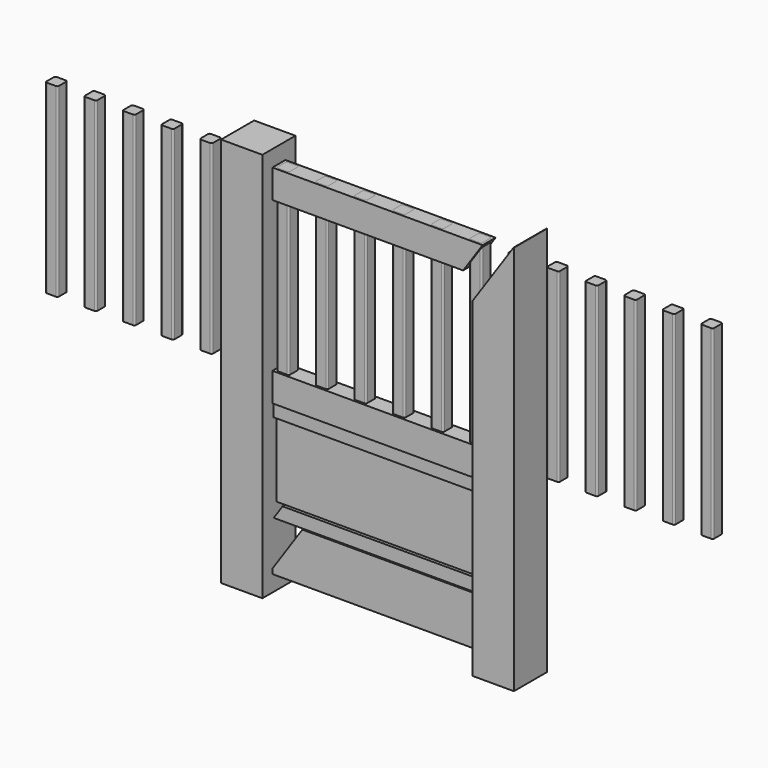
from build123d import *

# Parameters (mm, degrees)
F1_DEPTH      = 63.5
F1_DEPTH_BACK = 63.5
F2_DEPTH      = 25
F2_DEPTH_BACK = 25
F3_DEPTH      = 20
F3_DEPTH_BACK = 20
F4_DEPTH      = 10
F4_DEPTH_BACK = 10
F6_DEPTH      = 570


with BuildPart() as f1:
    # F0 (on Front) → F1 (new body, two sides)
    with BuildSketch(Plane.XZ) as f1_sk:
        Polygon((-323, -600), (-323, -550), (-323, -535.1567589171), (-323, -400), (-323, -360), (-323, -128), (-323, -88), (-323, 0), (-323, 462), (-323, 550), (-323, 600), (-450, 600), (-450, -600), align=None)
    extrude(amount=F1_DEPTH)
    extrude(f1_sk.sketch, amount=-F1_DEPTH_BACK)


with BuildPart() as f1b:
    # F0 (on Front) → F1, piece 2 (new body, two sides)
    with BuildSketch(Plane.XZ) as f1_2_sk:
        Polygon((323, -600), (450, -600), (450, 600), (448.9065960636, 600), (323, 414.8432410829), (323, 0), (323, -88), (323, -128), (323, -360), (323, -400), (323, -550), align=None)
    extrude(amount=F1_DEPTH)
    extrude(f1_2_sk.sketch, amount=-F1_DEPTH_BACK)


with BuildPart() as f2:
    # F0 (on Front) → F2 (new body, two sides)
    with BuildSketch(Plane.XZ) as f2_sk:
        Polygon((-323, -550), (323, -550), (323, -400), (-231.0934039364, -400), (-323, -535.1567589171), align=None)
    extrude(amount=F2_DEPTH)
    extrude(f2_sk.sketch, amount=-F2_DEPTH_BACK)


with BuildPart() as f2b:
    # F0 (on Front) → F2, piece 2 (new body, two sides)
    with BuildSketch(Plane.XZ) as f2_2_sk:
        Polygon((263.16, 462), (323, 550), (-323, 550), (-323, 462), align=None)
    extrude(amount=F2_DEPTH)
    extrude(f2_2_sk.sketch, amount=-F2_DEPTH_BACK)


with BuildPart() as f2c:
    # F0 (on Front) → F2, piece 3 (new body, two sides)
    with BuildSketch(Plane.XZ) as f2_3_sk:
        Polygon((-110.84, -88), (-51, 0), (-323, 0), (-323, -88), align=None)
        Polygon((-18.9334039364, -88), (40.9065960636, 0), (-51, 0), (-110.84, -88), align=None)
        Polygon((323, -88), (323, 0), (40.9065960636, 0), (-18.9334039364, -88), align=None)
    extrude(amount=F2_DEPTH)
    extrude(f2_3_sk.sketch, amount=-F2_DEPTH_BACK)


with BuildPart() as f3:
    # F0 (on Front) → F3 (new body, two sides)
    with BuildSketch(Plane.XZ) as f3_sk:
        Polygon((-138.04, -128), (-110.84, -88), (-323, -88), (-323, -128), align=None)
        Polygon((-46.1334039364, -128), (-18.9334039364, -88), (-110.84, -88), (-138.04, -128), align=None)
        Polygon((-46.1334039364, -128), (323, -128), (323, -88), (-18.9334039364, -88), align=None)
    extrude(amount=F3_DEPTH)
    extrude(f3_sk.sketch, amount=-F3_DEPTH_BACK)


with BuildPart() as f3b:
    # F0 (on Front) → F3, piece 2 (new body, two sides)
    with BuildSketch(Plane.XZ) as f3_2_sk:
        Polygon((-323, -400), (-231.0934039364, -400), (-203.8934039364, -360), (-295.8, -360), align=None)
        Polygon((-231.0934039364, -400), (323, -400), (323, -360), (-203.8934039364, -360), align=None)
    extrude(amount=F3_DEPTH)
    extrude(f3_2_sk.sketch, amount=-F3_DEPTH_BACK)


with BuildPart() as f4:
    # F0 (on Front) → F4 (new body, two sides)
    with BuildSketch(Plane.XZ) as f4_sk:
        Polygon((-323, -360), (-295.8, -360), (-138.04, -128), (-323, -128), align=None)
        Polygon((-295.8, -360), (-203.8934039364, -360), (-46.1334039364, -128), (-138.04, -128), align=None)
        Polygon((-203.8934039364, -360), (323, -360), (323, -128), (-46.1334039364, -128), align=None)
    extrude(amount=F4_DEPTH)
    extrude(f4_sk.sketch, amount=-F4_DEPTH_BACK)


with BuildPart() as f6:
    # F5 (on face) → F6 (new body)
    with BuildSketch(Plane.XY.offset(550)):
        with BuildLine():
            Line((-1021.03, -19), (-993.03, -19))
            ThreePointArc((-993.03, -19), (-989.4944660941, -17.5355339059), (-988.03, -14))
            Line((-988.03, -14), (-988.03, 14))
            ThreePointArc((-988.03, 14), (-989.4944660941, 17.5355339059), (-993.03, 19))
            Line((-993.03, 19), (-1021.03, 19))
            ThreePointArc((-1021.03, 19), (-1024.5655339059, 17.5355339059), (-1026.03, 14))
            Line((-1026.03, 14), (-1026.03, -14))
            ThreePointArc((-1026.03, -14), (-1024.5655339059, -17.5355339059), (-1021.03, -19))
        make_face()
    extrude(amount=-F6_DEPTH)


with BuildPart() as f6b:
    # F5 (on face) → F6, piece 2 (new body)
    with BuildSketch(Plane.XY.offset(550)):
        with BuildLine():
            ThreePointArc((-869.56, 14), (-871.0244660941, 17.5355339059), (-874.56, 19))
            Line((-874.56, 19), (-902.56, 19))
            ThreePointArc((-902.56, 19), (-906.0955339059, 17.5355339059), (-907.56, 14))
            Line((-907.56, 14), (-907.56, -14))
            ThreePointArc((-907.56, -14), (-906.0955339059, -17.5355339059), (-902.56, -19))
            Line((-902.56, -19), (-874.56, -19))
            ThreePointArc((-874.56, -19), (-871.0244660941, -17.5355339059), (-869.56, -14))
            Line((-869.56, -14), (-869.56, 14))
        make_face()
    extrude(amount=-F6_DEPTH)


with BuildPart() as f6c:
    # F5 (on face) → F6, piece 3 (new body)
    with BuildSketch(Plane.XY.offset(550)):
        with BuildLine():
            ThreePointArc((-751.09, 14), (-752.5544660941, 17.5355339059), (-756.09, 19))
            Line((-756.09, 19), (-784.09, 19))
            ThreePointArc((-784.09, 19), (-787.6255339059, 17.5355339059), (-789.09, 14))
            Line((-789.09, 14), (-789.09, -14))
            ThreePointArc((-789.09, -14), (-787.6255339059, -17.5355339059), (-784.09, -19))
            Line((-784.09, -19), (-756.09, -19))
            ThreePointArc((-756.09, -19), (-752.5544660941, -17.5355339059), (-751.09, -14))
            Line((-751.09, -14), (-751.09, 14))
        make_face()
    extrude(amount=-F6_DEPTH)


with BuildPart() as f6d:
    # F5 (on face) → F6, piece 4 (new body)
    with BuildSketch(Plane.XY.offset(550)):
        with BuildLine():
            ThreePointArc((-632.62, 14), (-634.0844660941, 17.5355339059), (-637.62, 19))
            Line((-637.62, 19), (-665.62, 19))
            ThreePointArc((-665.62, 19), (-669.1555339059, 17.5355339059), (-670.62, 14))
            Line((-670.62, 14), (-670.62, -14))
            ThreePointArc((-670.62, -14), (-669.1555339059, -17.5355339059), (-665.62, -19))
            Line((-665.62, -19), (-637.62, -19))
            ThreePointArc((-637.62, -19), (-634.0844660941, -17.5355339059), (-632.62, -14))
            Line((-632.62, -14), (-632.62, 14))
        make_face()
    extrude(amount=-F6_DEPTH)


with BuildPart() as f6e:
    # F5 (on face) → F6, piece 5 (new body)
    with BuildSketch(Plane.XY.offset(550)):
        with BuildLine():
            ThreePointArc((-514.15, 14), (-515.6144660941, 17.5355339059), (-519.15, 19))
            Line((-519.15, 19), (-547.15, 19))
            ThreePointArc((-547.15, 19), (-550.6855339059, 17.5355339059), (-552.15, 14))
            Line((-552.15, 14), (-552.15, -14))
            ThreePointArc((-552.15, -14), (-550.6855339059, -17.5355339059), (-547.15, -19))
            Line((-547.15, -19), (-519.15, -19))
            ThreePointArc((-519.15, -19), (-515.6144660941, -17.5355339059), (-514.15, -14))
            Line((-514.15, -14), (-514.15, 14))
        make_face()
    extrude(amount=-F6_DEPTH)


with BuildPart() as f6f:
    # F5 (on face) → F6, piece 6 (new body)
    with BuildSketch(Plane.XY.offset(550)):
        with BuildLine():
            ThreePointArc((-395.68, 14), (-397.1444660941, 17.5355339059), (-400.68, 19))
            Line((-400.68, 19), (-428.68, 19))
            ThreePointArc((-428.68, 19), (-432.2155339059, 17.5355339059), (-433.68, 14))
            Line((-433.68, 14), (-433.68, -14))
            ThreePointArc((-433.68, -14), (-432.2155339059, -17.5355339059), (-428.68, -19))
            Line((-428.68, -19), (-400.68, -19))
            ThreePointArc((-400.68, -19), (-397.1444660941, -17.5355339059), (-395.68, -14))
            Line((-395.68, -14), (-395.68, 14))
        make_face()
    extrude(amount=-F6_DEPTH)


with BuildPart() as f6g:
    # F5 (on face) → F6, piece 7 (new body)
    with BuildSketch(Plane.XY.offset(550)):
        with BuildLine():
            ThreePointArc((-277.21, 14), (-278.6744660941, 17.5355339059), (-282.21, 19))
            Line((-282.21, 19), (-310.21, 19))
            ThreePointArc((-310.21, 19), (-313.7455339059, 17.5355339059), (-315.21, 14))
            Line((-315.21, 14), (-315.21, -14))
            ThreePointArc((-315.21, -14), (-313.7455339059, -17.5355339059), (-310.21, -19))
            Line((-310.21, -19), (-282.21, -19))
            ThreePointArc((-282.21, -19), (-278.6744660941, -17.5355339059), (-277.21, -14))
            Line((-277.21, -14), (-277.21, 14))
        make_face()
    extrude(amount=-F6_DEPTH)


with BuildPart() as f6h:
    # F5 (on face) → F6, piece 8 (new body)
    with BuildSketch(Plane.XY.offset(550)):
        with BuildLine():
            ThreePointArc((-158.74, 14), (-160.2044660941, 17.5355339059), (-163.74, 19))
            Line((-163.74, 19), (-191.74, 19))
            ThreePointArc((-191.74, 19), (-195.2755339059, 17.5355339059), (-196.74, 14))
            Line((-196.74, 14), (-196.74, -14))
            ThreePointArc((-196.74, -14), (-195.2755339059, -17.5355339059), (-191.74, -19))
            Line((-191.74, -19), (-163.74, -19))
            ThreePointArc((-163.74, -19), (-160.2044660941, -17.5355339059), (-158.74, -14))
            Line((-158.74, -14), (-158.74, 14))
        make_face()
    extrude(amount=-F6_DEPTH)


with BuildPart() as f6i:
    # F5 (on face) → F6, piece 9 (new body)
    with BuildSketch(Plane.XY.offset(550)):
        with BuildLine():
            ThreePointArc((-40.27, 14), (-41.7344660941, 17.5355339059), (-45.27, 19))
            Line((-45.27, 19), (-73.27, 19))
            ThreePointArc((-73.27, 19), (-76.8055339059, 17.5355339059), (-78.27, 14))
            Line((-78.27, 14), (-78.27, -14))
            ThreePointArc((-78.27, -14), (-76.8055339059, -17.5355339059), (-73.27, -19))
            Line((-73.27, -19), (-45.27, -19))
            ThreePointArc((-45.27, -19), (-41.7344660941, -17.5355339059), (-40.27, -14))
            Line((-40.27, -14), (-40.27, 14))
        make_face()
    extrude(amount=-F6_DEPTH)


with BuildPart() as f6j:
    # F5 (on face) → F6, piece 10 (new body)
    with BuildSketch(Plane.XY.offset(550)):
        with BuildLine():
            ThreePointArc((78.2, 14), (76.7355339059, 17.5355339059), (73.2, 19))
            Line((73.2, 19), (45.2, 19))
            ThreePointArc((45.2, 19), (41.6644660941, 17.5355339059), (40.2, 14))
            Line((40.2, 14), (40.2, -14))
            ThreePointArc((40.2, -14), (41.6644660941, -17.5355339059), (45.2, -19))
            Line((45.2, -19), (73.2, -19))
            ThreePointArc((73.2, -19), (76.7355339059, -17.5355339059), (78.2, -14))
            Line((78.2, -14), (78.2, 14))
        make_face()
    extrude(amount=-F6_DEPTH)


with BuildPart() as f6k:
    # F5 (on face) → F6, piece 11 (new body)
    with BuildSketch(Plane.XY.offset(550)):
        with BuildLine():
            ThreePointArc((196.67, 14), (195.2055339059, 17.5355339059), (191.67, 19))
            Line((191.67, 19), (163.67, 19))
            ThreePointArc((163.67, 19), (160.1344660941, 17.5355339059), (158.67, 14))
            Line((158.67, 14), (158.67, -14))
            ThreePointArc((158.67, -14), (160.1344660941, -17.5355339059), (163.67, -19))
            Line((163.67, -19), (191.67, -19))
            ThreePointArc((191.67, -19), (195.2055339059, -17.5355339059), (196.67, -14))
            Line((196.67, -14), (196.67, 14))
        make_face()
    extrude(amount=-F6_DEPTH)


with BuildPart() as f6l:
    # F5 (on face) → F6, piece 12 (new body)
    with BuildSketch(Plane.XY.offset(550)):
        with BuildLine():
            ThreePointArc((315.14, 14), (313.6755339059, 17.5355339059), (310.14, 19))
            Line((310.14, 19), (282.14, 19))
            ThreePointArc((282.14, 19), (278.6044660941, 17.5355339059), (277.14, 14))
            Line((277.14, 14), (277.14, -14))
            ThreePointArc((277.14, -14), (278.6044660941, -17.5355339059), (282.14, -19))
            Line((282.14, -19), (310.14, -19))
            ThreePointArc((310.14, -19), (313.6755339059, -17.5355339059), (315.14, -14))
            Line((315.14, -14), (315.14, 14))
        make_face()
    extrude(amount=-F6_DEPTH)


with BuildPart() as f6m:
    # F5 (on face) → F6, piece 13 (new body)
    with BuildSketch(Plane.XY.offset(550)):
        with BuildLine():
            ThreePointArc((433.61, 14), (432.1455339059, 17.5355339059), (428.61, 19))
            Line((428.61, 19), (400.61, 19))
            ThreePointArc((400.61, 19), (397.0744660941, 17.5355339059), (395.61, 14))
            Line((395.61, 14), (395.61, -14))
            ThreePointArc((395.61, -14), (397.0744660941, -17.5355339059), (400.61, -19))
            Line((400.61, -19), (428.61, -19))
            ThreePointArc((428.61, -19), (432.1455339059, -17.5355339059), (433.61, -14))
            Line((433.61, -14), (433.61, 14))
        make_face()
    extrude(amount=-F6_DEPTH)


with BuildPart() as f6n:
    # F5 (on face) → F6, piece 14 (new body)
    with BuildSketch(Plane.XY.offset(550)):
        with BuildLine():
            ThreePointArc((552.08, 14), (550.6155339059, 17.5355339059), (547.08, 19))
            Line((547.08, 19), (519.08, 19))
            ThreePointArc((519.08, 19), (515.5444660941, 17.5355339059), (514.08, 14))
            Line((514.08, 14), (514.08, -14))
            ThreePointArc((514.08, -14), (515.5444660941, -17.5355339059), (519.08, -19))
            Line((519.08, -19), (547.08, -19))
            ThreePointArc((547.08, -19), (550.6155339059, -17.5355339059), (552.08, -14))
            Line((552.08, -14), (552.08, 14))
        make_face()
    extrude(amount=-F6_DEPTH)


with BuildPart() as f6o:
    # F5 (on face) → F6, piece 15 (new body)
    with BuildSketch(Plane.XY.offset(550)):
        with BuildLine():
            ThreePointArc((670.55, 14), (669.0855339059, 17.5355339059), (665.55, 19))
            Line((665.55, 19), (637.55, 19))
            ThreePointArc((637.55, 19), (634.0144660941, 17.5355339059), (632.55, 14))
            Line((632.55, 14), (632.55, -14))
            ThreePointArc((632.55, -14), (634.0144660941, -17.5355339059), (637.55, -19))
            Line((637.55, -19), (665.55, -19))
            ThreePointArc((665.55, -19), (669.0855339059, -17.5355339059), (670.55, -14))
            Line((670.55, -14), (670.55, 14))
        make_face()
    extrude(amount=-F6_DEPTH)


with BuildPart() as f6p:
    # F5 (on face) → F6, piece 16 (new body)
    with BuildSketch(Plane.XY.offset(550)):
        with BuildLine():
            ThreePointArc((789.02, 14), (787.5555339059, 17.5355339059), (784.02, 19))
            Line((784.02, 19), (756.02, 19))
            ThreePointArc((756.02, 19), (752.4844660941, 17.5355339059), (751.02, 14))
            Line((751.02, 14), (751.02, -14))
            ThreePointArc((751.02, -14), (752.4844660941, -17.5355339059), (756.02, -19))
            Line((756.02, -19), (784.02, -19))
            ThreePointArc((784.02, -19), (787.5555339059, -17.5355339059), (789.02, -14))
            Line((789.02, -14), (789.02, 14))
        make_face()
    extrude(amount=-F6_DEPTH)


with BuildPart() as f6q:
    # F5 (on face) → F6, piece 17 (new body)
    with BuildSketch(Plane.XY.offset(550)):
        with BuildLine():
            ThreePointArc((907.49, 14), (906.0255339059, 17.5355339059), (902.49, 19))
            Line((902.49, 19), (874.49, 19))
            ThreePointArc((874.49, 19), (870.9544660941, 17.5355339059), (869.49, 14))
            Line((869.49, 14), (869.49, -14))
            ThreePointArc((869.49, -14), (870.9544660941, -17.5355339059), (874.49, -19))
            Line((874.49, -19), (902.49, -19))
            ThreePointArc((902.49, -19), (906.0255339059, -17.5355339059), (907.49, -14))
            Line((907.49, -14), (907.49, 14))
        make_face()
    extrude(amount=-F6_DEPTH)


with BuildPart() as f6r:
    # F5 (on face) → F6, piece 18 (new body)
    with BuildSketch(Plane.XY.offset(550)):
        with BuildLine():
            ThreePointArc((1025.96, 14), (1024.4955339059, 17.5355339059), (1020.96, 19))
            Line((1020.96, 19), (992.96, 19))
            ThreePointArc((992.96, 19), (989.4244660941, 17.5355339059), (987.96, 14))
            Line((987.96, 14), (987.96, -14))
            ThreePointArc((987.96, -14), (989.4244660941, -17.5355339059), (992.96, -19))
            Line((992.96, -19), (1020.96, -19))
            ThreePointArc((1020.96, -19), (1024.4955339059, -17.5355339059), (1025.96, -14))
            Line((1025.96, -14), (1025.96, 14))
        make_face()
    extrude(amount=-F6_DEPTH)


solid = Compound([f1.part, f1b.part, f2.part, f2b.part, f2c.part, f3.part, f3b.part, f4.part, f6.part, f6b.part, f6c.part, f6d.part, f6e.part, f6f.part, f6g.part, f6h.part, f6i.part, f6j.part, f6k.part, f6l.part, f6m.part, f6n.part, f6o.part, f6p.part, f6q.part, f6r.part])
